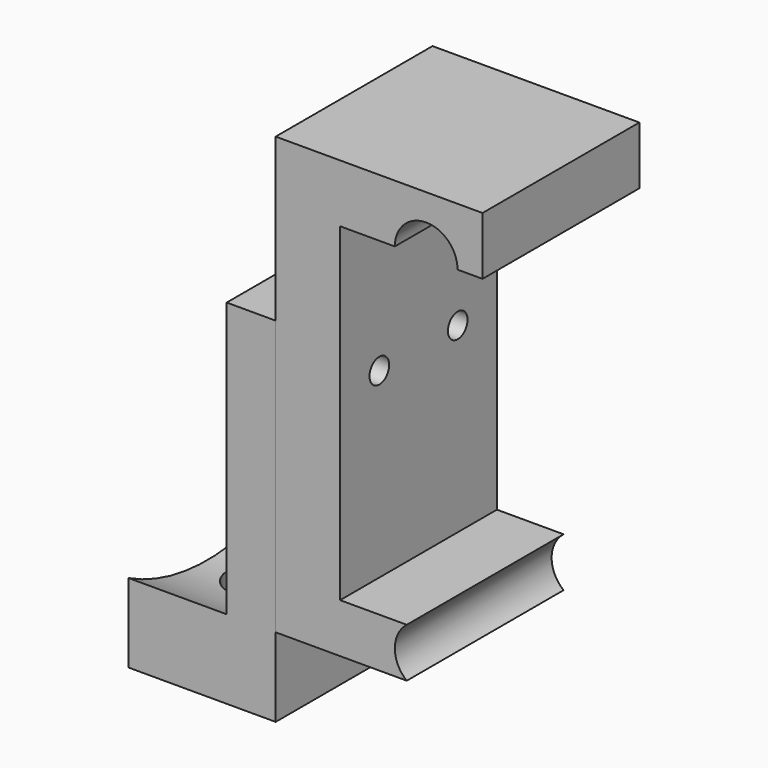
from build123d import *

# Parameters (mm, degrees)
F1_DEPTH = 12.7
F2_R     = 1.5875
F3_DEPTH = 26.802816
F4_W     = 25.4
F4_H     = 45.776122
F4_R     = 1.5875
F5_DEPTH = 19.05
F6_R     = 27.305
F7_DEPTH = 12.7
F8_R     = 4.826
F9_DEPTH = 12.7


with BuildPart() as f1:
    # F0 (on Front) → F1 (new body, symmetric)
    with BuildSketch(Plane.XZ):
        with BuildLine():
            ThreePointArc((-4.064, 0), (0, 4.064), (4.064, 0))
            Line((4.064, 0), (7.300605, 0))
            Line((7.300605, 0), (7.300605, 7.512905))
            Line((7.300605, 7.512905), (-19.501211, 7.512905))
            Line((-19.501211, 7.512905), (-19.501211, -49.03813))
            Line((-19.501211, -49.03813), (-2.516502, -49.03813))
            ThreePointArc((-2.516502, -49.03813), (-4.064, -45.847), (-2.516502, -42.65587))
            Line((-2.516502, -42.65587), (-11.152196, -42.65587))
            Line((-11.152196, -42.65587), (-11.152196, 0))
            Line((-11.152196, 0), (-4.064, 0))
        make_face()
    extrude(amount=F1_DEPTH, both=True)

    # F2 (on face) → F3 (cut, through all)
    with BuildSketch(Plane(origin=(-19.501211, 0, 0), x_dir=(0, -1, 0), z_dir=(-1, 0, 0))):
        with Locations((-6.35, -19.05)):
            Circle(F2_R)
        with Locations((6.35, -19.05)):
            Circle(F2_R)
    extrude(amount=-F3_DEPTH, mode=Mode.SUBTRACT)


with BuildPart() as f5:
    # F4 (on face) → F5 (new body)
    with BuildSketch(Plane(origin=(-19.501211, 0, 0), x_dir=(0, -1, 0), z_dir=(-1, 0, 0))):
        with Locations((0, -36.372903)):
            Rectangle(F4_W, F4_H)
        with Locations((-6.35, -19.05)):
            Circle(F4_R, mode=Mode.SUBTRACT)
        with Locations((6.35, -19.05)):
            Circle(F4_R, mode=Mode.SUBTRACT)
    extrude(amount=F5_DEPTH)

    # F6 (on face) → F7 (cut)
    with BuildSketch(Plane(origin=(-38.551211, 0, 0), x_dir=(0, -1, 0), z_dir=(-1, 0, 0))):
        with Locations((0, -24.876134)):
            Circle(F6_R)
    extrude(amount=-F7_DEPTH, mode=Mode.SUBTRACT)

    # F8 (on face) → F9 (cut)
    with BuildSketch(Plane(origin=(0, 0, -59.260964), x_dir=(1, 0, 0), z_dir=(0, 0, -1))):
        with Locations((-30.713812, 0)):
            Circle(F8_R)
    extrude(amount=-F9_DEPTH, mode=Mode.SUBTRACT)


solid = Compound([f1.part, f5.part])
